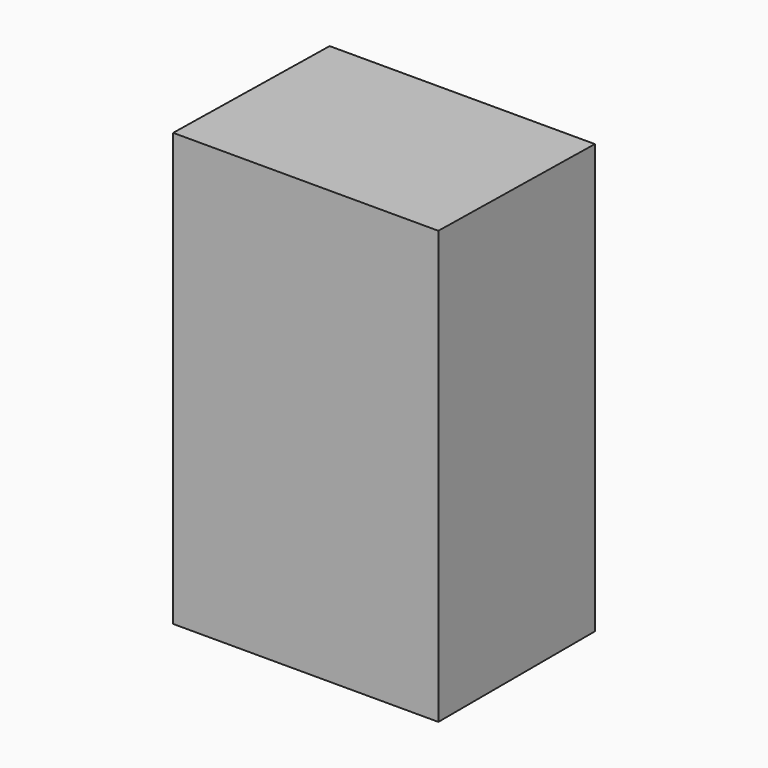
from build123d import *

# Parameters (mm, degrees)
F0_W = 68.278689
F0_H = 110.450826
F2_W = 68.278689
F2_H = 111.311481


with BuildPart() as f3:
    # F0 (on Front) → F3 section 0
    with BuildSketch(Plane.XZ):
        with Locations((-2.581967, 0)):
            Rectangle(F0_W, F0_H)
    # F2 (on offset) → F3 section 1
    with BuildSketch(Plane.XZ.offset(50)):
        with Locations((-2.868855, 0.143443)):
            Rectangle(F2_W, F2_H)
    loft()


solid = f3.part
